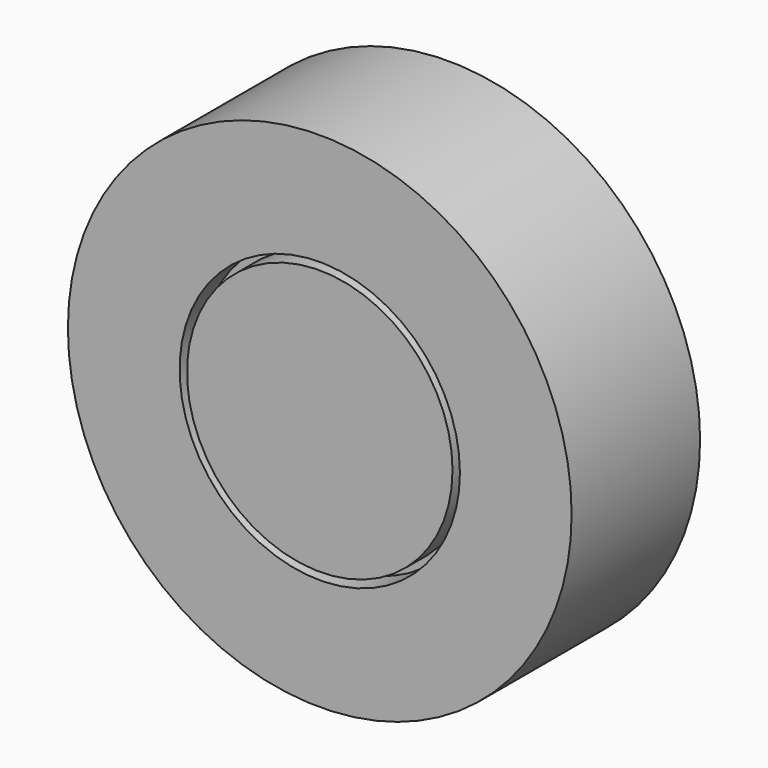
from build123d import *

# Parameters (mm, degrees)
F0_R     = 239.014
F1_DEPTH = 152.4
F2_R     = 133.0071
F2_R_2   = 125.984
F3_DEPTH = 25.4


with BuildPart() as f1:
    # F0 (on Front) → F1 (new body)
    with BuildSketch(Plane.XZ):
        Circle(F0_R)
    extrude(amount=F1_DEPTH)

    # F2 (on face) → F3 (cut)
    with BuildSketch(Plane.XZ.offset(152.4)):
        Circle(F2_R)
        Circle(F2_R_2, mode=Mode.SUBTRACT)
    extrude(amount=-F3_DEPTH, mode=Mode.SUBTRACT)


solid = f1.part
